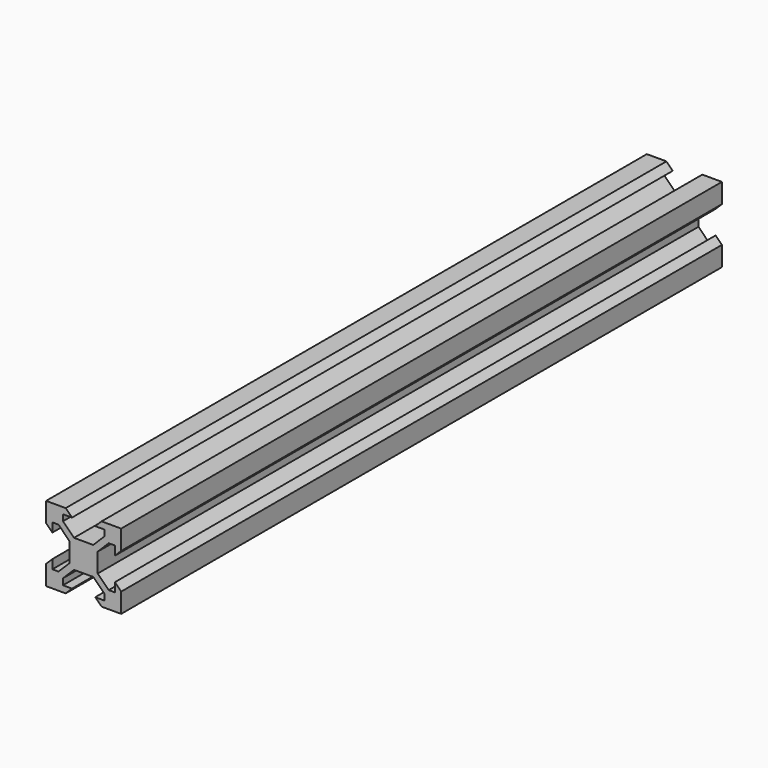
from build123d import *

# Parameters (mm, degrees)
F1_DEPTH = 100


with BuildPart() as f1:
    # F0 (on Front) → F1 (new body, symmetric)
    with BuildSketch(Plane.XZ):
        Polygon((-4.775, 10), (-10, 10), (-10, 4.775), (-8.325, 3.1), (-8.325, 5.5), (-6.684404, 5.5), (-3.75, 2.565596), (-3.75, 0), (-3.75, -2.565596), (-6.684404, -5.5), (-8.325, -5.5), (-8.325, -3.1), (-10, -4.775), (-10, -10), (-4.775, -10), (-3.1, -8.325), (-5.5, -8.325), (-5.5, -6.684404), (-2.565596, -3.75), (0, -3.75), (2.565596, -3.75), (5.5, -6.684404), (5.5, -8.325), (3.1, -8.325), (4.775, -10), (10, -10), (10, -4.775), (8.325, -3.1), (8.325, -5.5), (6.684404, -5.5), (3.75, -2.565596), (3.75, 0), (3.75, 2.565596), (6.684404, 5.5), (8.325, 5.5), (8.325, 3.1), (10, 4.775), (10, 10), (4.775, 10), (3.1, 8.325), (5.5, 8.325), (5.5, 6.684404), (2.565596, 3.75), (0, 3.75), (-2.565596, 3.75), (-5.5, 6.684404), (-5.5, 8.325), (-3.1, 8.325), align=None)
    extrude(amount=F1_DEPTH, both=True)


solid = f1.part
